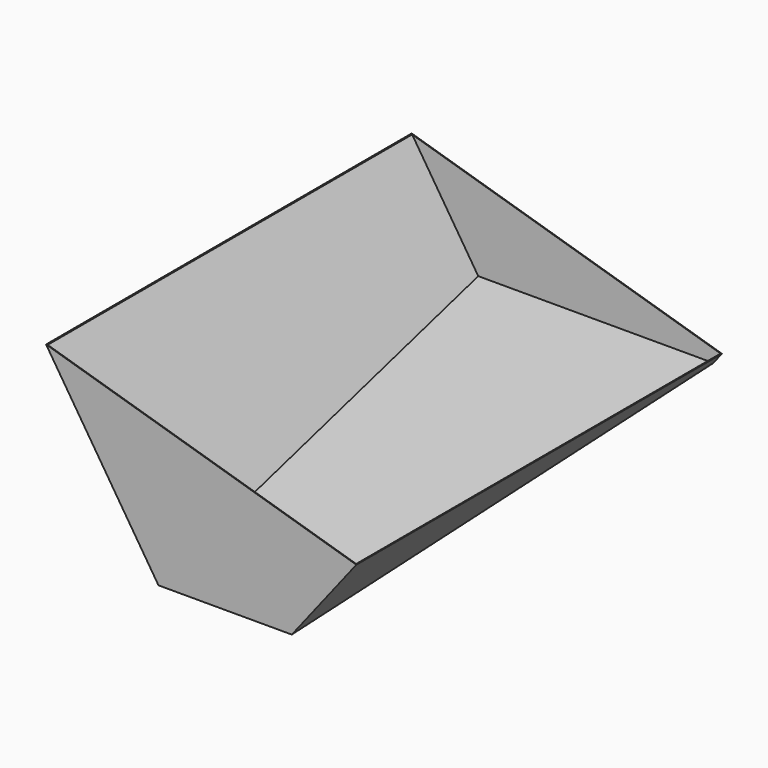
from build123d import *

# Parameters (mm, degrees)
F1_DEPTH      = 1920
F3_DEPTH      = 831.201
F3_DEPTH_BACK = 472.271
F4_T          = -3


with BuildPart() as f1:
    # F0 (on Front) → F1 (new body)
    with BuildSketch(Plane.XZ):
        Polygon((-472.27, 737.5), (0, 0), (560, 0), (831.2, 346.48), align=None)
    extrude(amount=-F1_DEPTH)

    # F2 (on Right) → F3 (cut, two sides)
    with BuildSketch(Plane.YZ) as f3_sk:
        Polygon((0, 0), (1920, 0), (1920, 300), align=None)
    extrude(amount=F3_DEPTH, mode=Mode.SUBTRACT)
    extrude(f3_sk.sketch, amount=-F3_DEPTH_BACK, mode=Mode.SUBTRACT)

    # F4
    f4_openings = [f1.faces().sort_by_distance(p)[0] for p in [
        (179.465, 960, 541.99),
    ]]
    offset(amount=F4_T, openings=f4_openings)


solid = f1.part
